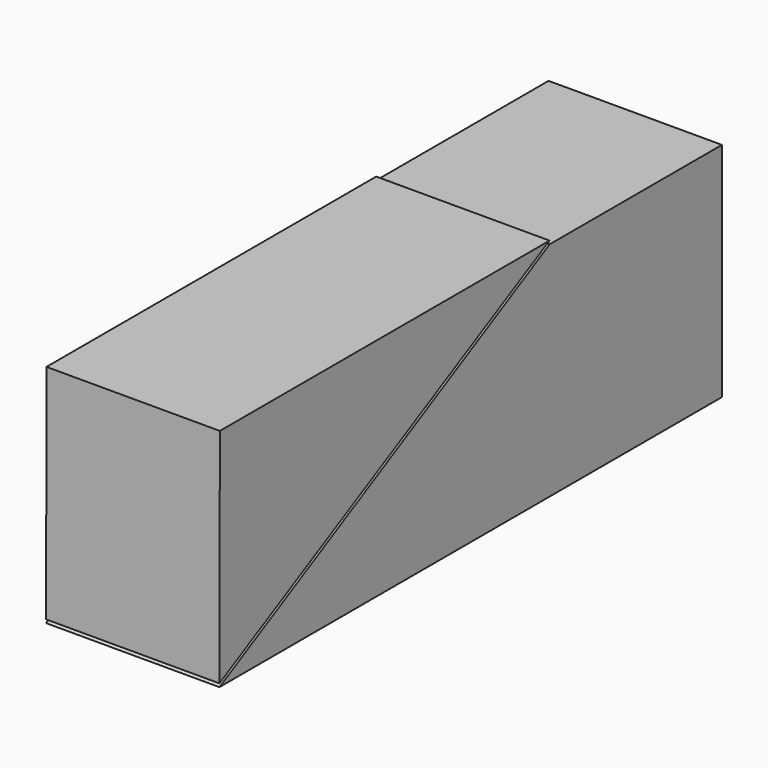
from build123d import *

# Parameters (mm, degrees)
F1_DEPTH = 25
F3_DEPTH = 25


with BuildPart() as f1:
    # F0 (on Right) → F1 (new body)
    with BuildSketch(Plane.YZ):
        Polygon((-7.110205, 39.375003), (-66.546806, 39.375003), (-66.620834, 7.349203), align=None)
    extrude(amount=F1_DEPTH)


with BuildPart() as f3:
    # F2 (on Right) → F3 (new body)
    with BuildSketch(Plane.YZ):
        Polygon((-7.110205, 38.897004), (-66.620834, 6.871207), (23.959598, 6.871207), (23.959598, 38.897004), align=None)
    extrude(amount=F3_DEPTH)


solid = Compound([f1.part, f3.part])
